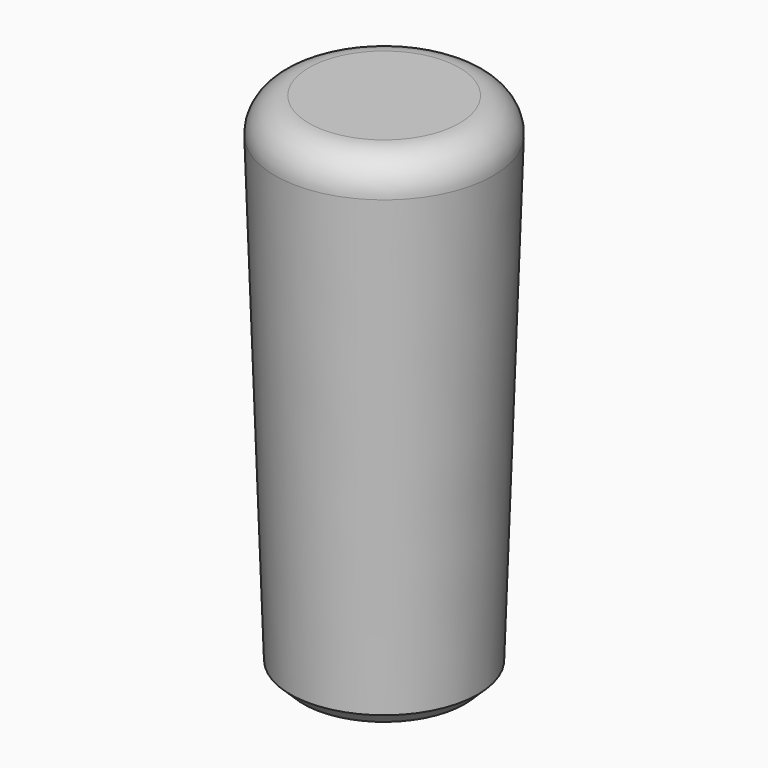
from build123d import *

# Parameters (mm, degrees)
F2_R    = 2
F3_SIZE = 0.75


with BuildPart() as f1:
    # F0 (on Front) → F1 (revolve)
    with BuildSketch(Plane.XZ):
        Polygon((5.5, 0), (6.5, 30), (0, 30), (0, 15), (4, 15), (4, 0), align=None)
    revolve(axis=Axis((0, 0, 0.05881), (0, 0, -1)))

    # F2
    f2_edges = [f1.edges().sort_by_distance(p)[0] for p in [
        (-6.5, 0, 30),
    ]]
    fillet(f2_edges, radius=F2_R)

    # F3
    f3_edges = [f1.edges().sort_by_distance(p)[0] for p in [
        (-5.5, 0, 0),
    ]]
    chamfer(f3_edges, length=F3_SIZE)


solid = f1.part
